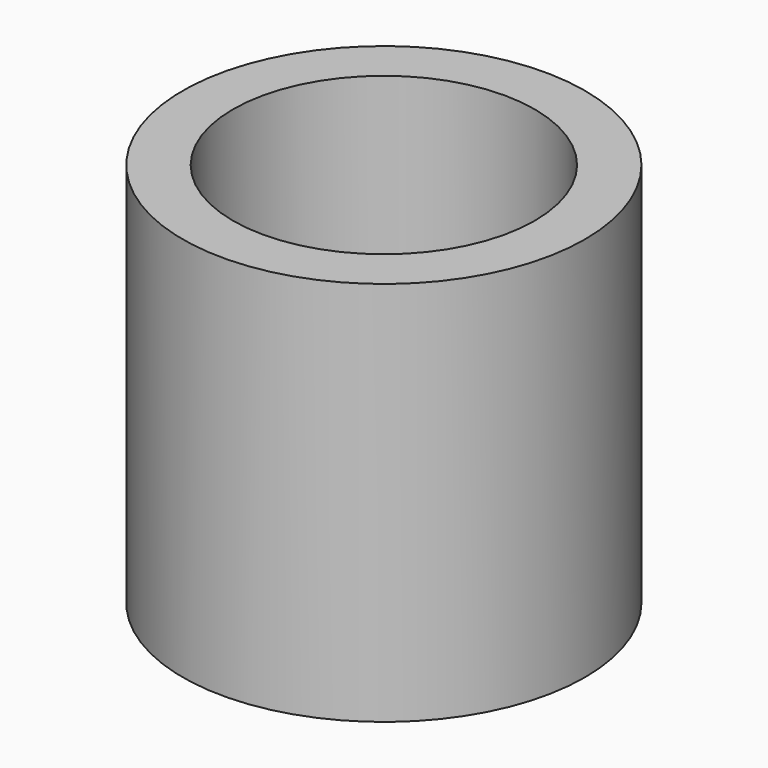
from build123d import *

# Parameters (mm, degrees)
F0_R     = 12
F1_DEPTH = 23
F3_D     = 18
F3_DEPTH = 50


with BuildPart() as f1:
    # F0 (on Top) → F1 (new body)
    with BuildSketch(Plane.XY):
        Circle(F0_R)
    extrude(amount=F1_DEPTH)

    # F3
    with Locations(Plane(origin=(0, 0, 0), x_dir=(1, 0, 0), z_dir=(0, 0, -1))):
        with Locations((0, 0)):
            Hole(F3_D / 2, depth=F3_DEPTH)


solid = f1.part
